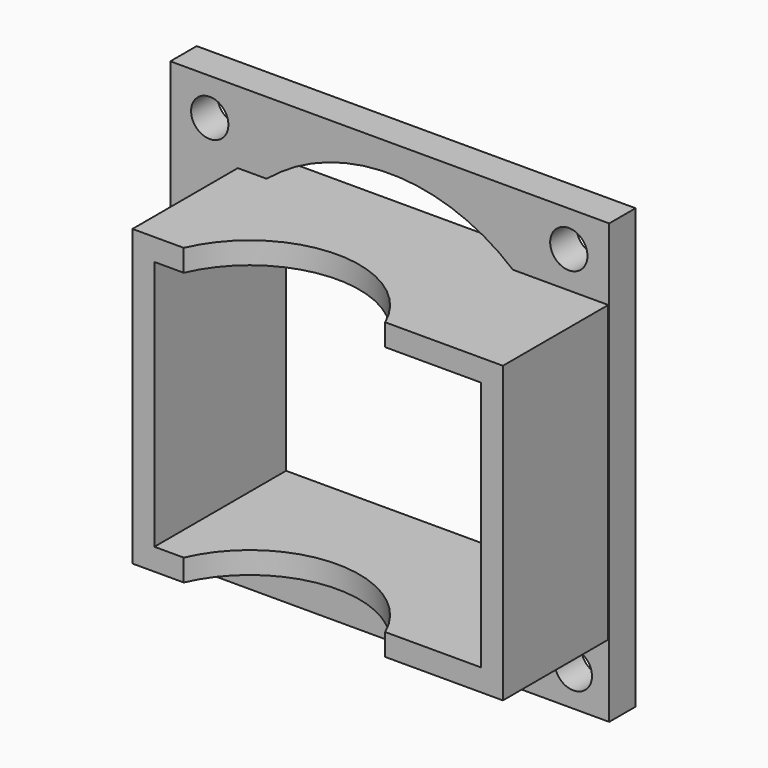
from build123d import *

# Parameters (mm, degrees)
F1_W          = 40
F1_H          = 40
F1_R          = 1.7
F2_DEPTH      = 3
F0_W          = 29.764212
F0_H          = 22.853858
F3_DEPTH      = 15
F0_W_2        = 24.935725
F0_H_2        = 6.393774
F4_DEPTH      = 3
F5_R          = 10
F7_DEPTH      = 25
F7_DEPTH_BACK = 25


with BuildPart() as f2:
    # F1 (on Front) → F2 (new body)
    with BuildSketch(Plane.XZ):
        Rectangle(F1_W, F1_H)
        with Locations((-16.410692, -16.77718)):
            Circle(F1_R, mode=Mode.SUBTRACT)
        with Locations((16.730379, -16.836943)):
            Circle(F1_R, mode=Mode.SUBTRACT)
        with Locations((-16.410692, 16.623817)):
            Circle(F1_R, mode=Mode.SUBTRACT)
        with BuildLine():
            ThreePointArc((-13.886995, 10.649008), (5.622615, 16.572151), (17.5, 0))
            ThreePointArc((17.5, 0), (5.622615, -16.572151), (-13.886995, -10.649008))
            ThreePointArc((-13.886995, -10.649008), (-17.5, 0), (-13.886995, 10.649008))
        make_face(mode=Mode.SUBTRACT)
        with Locations((16.31801, 16.738871)):
            Circle(F1_R, mode=Mode.SUBTRACT)
        with BuildLine():
            Line((-13.886995, -10.649008), (-13.886995, 10.649008))
            ThreePointArc((-13.886995, 10.649008), (-17.5, 0), (-13.886995, -10.649008))
        make_face()
    extrude(amount=F2_DEPTH)

    # F0 (on Front) → F3 (join)
    with BuildSketch(Plane.XZ):
        Polygon((19.911033, 13.426929), (-13.853179, 13.426929), (-13.853179, -13.426929), (-12.467862, -13.426929), (12.467863, -13.426929), (19.911033, -13.426929), align=None)
        with Locations((3.028927, 0)):
            Rectangle(F0_W, F0_H, mode=Mode.SUBTRACT)
    extrude(amount=F3_DEPTH)

    # F0 (on Front) → F4 (join)
    with BuildSketch(Plane.XZ):
        with Locations((0, -16.623816)):
            Rectangle(F0_W_2, F0_H_2)
    extrude(amount=F4_DEPTH)

    # F5 (on Top) → F7 (cut, two sides)
    with BuildSketch(Plane.XY) as f7_sk:
        with Locations((0, -18.9682)):
            Circle(F5_R)
    extrude(amount=F7_DEPTH, mode=Mode.SUBTRACT)
    extrude(f7_sk.sketch, amount=-F7_DEPTH_BACK, mode=Mode.SUBTRACT)


solid = f2.part
